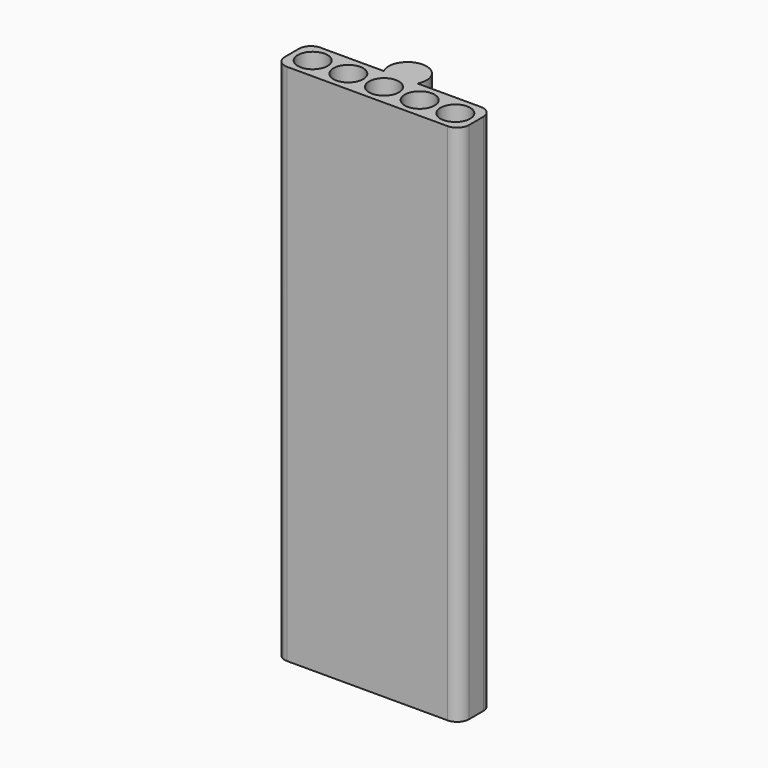
from build123d import *

# Parameters (mm, degrees)
F0_R     = 3.96875
F1_DEPTH = 139.7
F2_DEPTH = 25.4
F3_R     = 3.175


with BuildPart() as f1:
    # F0 (on Top) → F1 (new body)
    with BuildSketch(Plane.XY):
        with BuildLine():
            Line((24.60625, -44.219091), (4.524876, -44.219091))
            ThreePointArc((4.524876, -44.219091), (0, -36.83), (-4.524876, -44.219091))
            Line((-4.524876, -44.219091), (-24.60625, -44.219091))
            Line((-24.60625, -44.219091), (-24.60625, -55.331591))
            Line((-24.60625, -55.331591), (24.60625, -55.331591))
            Line((24.60625, -55.331591), (24.60625, -44.219091))
        make_face()
        with Locations((-19.05, -49.775341)):
            Circle(F0_R, mode=Mode.SUBTRACT)
        with Locations((-9.525, -49.775341)):
            Circle(F0_R, mode=Mode.SUBTRACT)
        with Locations((0, -49.775341)):
            Circle(F0_R, mode=Mode.SUBTRACT)
        with Locations((9.525, -49.775341)):
            Circle(F0_R, mode=Mode.SUBTRACT)
        with Locations((19.05, -49.775341)):
            Circle(F0_R, mode=Mode.SUBTRACT)
    extrude(amount=F1_DEPTH)

    # F0 (on Top) → F2 (join)
    with BuildSketch(Plane.XY):
        with Locations((-19.05, -49.775341)):
            Circle(F0_R)
        with Locations((-9.525, -49.775341)):
            Circle(F0_R)
        with Locations((0, -49.775341)):
            Circle(F0_R)
        with Locations((9.525, -49.775341)):
            Circle(F0_R)
        with Locations((19.05, -49.775341)):
            Circle(F0_R)
    extrude(amount=F2_DEPTH)

    # F3
    f3_edges = [f1.edges().sort_by_distance(p)[0] for p in [
        (24.60625, -55.331591, 69.85),
        (24.60625, -44.219091, 69.85),
        (-24.60625, -44.219091, 69.85),
        (-24.60625, -55.331591, 69.85),
    ]]
    fillet(f3_edges, radius=F3_R)


solid = f1.part
